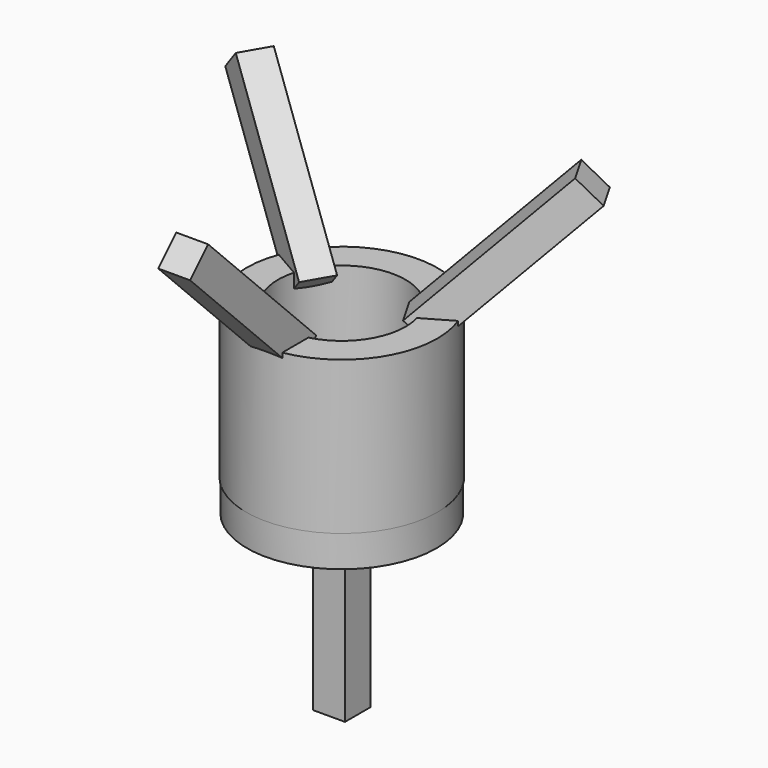
from build123d import *

# Parameters (mm, degrees)
SKETCH_R     = 1.5
SKETCH_R_2   = 1
PAD_DEPTH    = 1.2
SKETCH001_R  = 1.488237
PAD001_DEPTH = 0.5
SKETCH002_W  = 0.5
SKETCH002_H  = 2.7
PAD002_DEPTH = 0.25
SKETCH003_W  = 0.5
SKETCH003_H  = 3
PAD003_DEPTH = 0.25
PAD004_DEPTH = 0.25
PAD005_DEPTH = 0.25


with BuildPart() as part:
    # Sketch → Pad (new body, symmetric)
    with BuildSketch(Plane.XY):
        Circle(SKETCH_R)
        Circle(SKETCH_R_2, mode=Mode.SUBTRACT)
    extrude(amount=PAD_DEPTH, both=True)

    # Sketch001 (on Face3 of Pad) → Pad001 (join)
    with BuildSketch(Plane(origin=(0, 0, -1.2), x_dir=(1, 0, 0), z_dir=(0, 0, -1))):
        Circle(SKETCH001_R)
    extrude(amount=PAD001_DEPTH)

    # Sketch002 → Pad002 (join, symmetric)
    with BuildSketch(Plane.YZ):
        with Locations((0, -3.05)):
            Rectangle(SKETCH002_W, SKETCH002_H)
    extrude(amount=PAD002_DEPTH, both=True)

    # Sketch003 (on Face1 of CopyRuled_Surface) → Pad003 (join, symmetric)
    with BuildSketch(Plane(origin=(0, 0, 0), x_dir=(1, 0, 0), z_dir=(0, 0.707107, 0.707107))):
        with Locations((0, -2.9)):
            Rectangle(SKETCH003_W, SKETCH003_H)
    extrude(amount=PAD003_DEPTH, both=True)

    # Sketch004 (on CopyRuled_Surface) → Pad004 (join, symmetric)
    with BuildSketch(Plane(origin=(0, 0, 0), x_dir=(0.790569, -0.273861, 0.547723), z_dir=(0.612372, 0.353553, -0.707107))):
        Polygon((1.225119, -0.677557), (3.560833, -2.58466), (3.244606, -2.971958), (0.908891, -1.064855), align=None)
    extrude(amount=PAD004_DEPTH, both=True)

    # Sketch005 (on Face1 of CopyRuled_Surface002) → Pad005 (join, symmetric)
    with BuildSketch(Plane(origin=(0, 0, 0), x_dir=(0.790569, 0.273861, -0.547723), z_dir=(0.612372, -0.353553, 0.707107))):
        Polygon((-1.225119, 0.677557), (-3.560833, 2.58466), (-3.244606, 2.971958), (-0.908891, 1.064855), align=None)
    extrude(amount=PAD005_DEPTH, both=True)


solid = part.part
